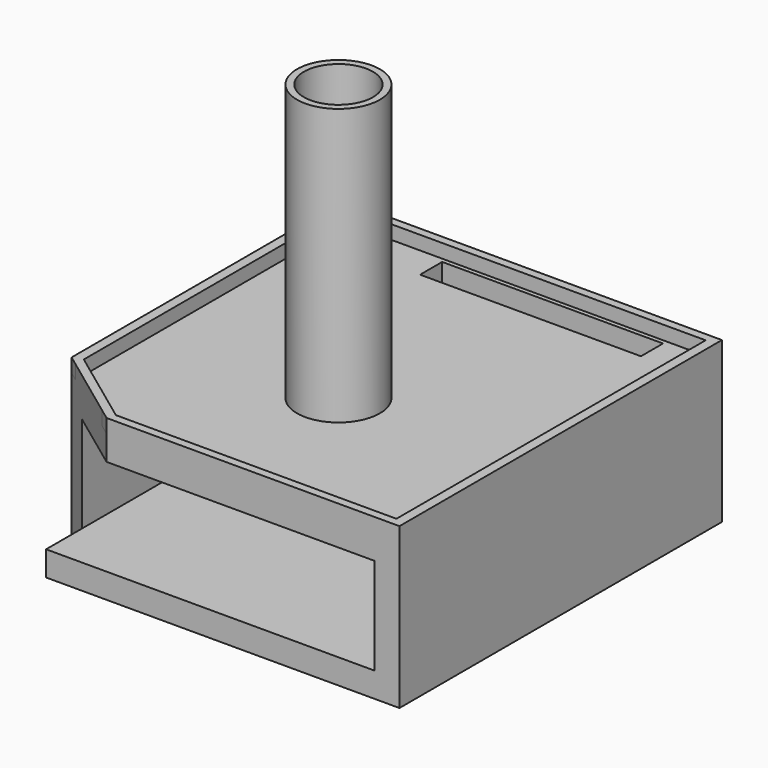
from build123d import *

# Parameters (mm, degrees)
F0_W      = 347.98
F0_H      = 294.64
F1_DEPTH  = 134.62
F3_W      = 302.26
F3_H      = 88.9
F4_DEPTH  = 307.34
F6_DEPTH  = 111.76
F9_DEPTH  = 25.4
F11_DEPTH = 12.7
F12_DEPTH = 12.7
F13_R     = 38.1
F13_R_2   = 31.75
F14_DEPTH = 254
F15_W     = 255.4974332452
F15_H     = 99.8806357384
F16_DEPTH = 254
F18_DEPTH = 254
F19_DEPTH = 254
F20_DEPTH = 76.2
F21_W     = 330.2
F21_H     = 76.2
F22_DEPTH = 12.7
F24_DEPTH = 83.82
F25_DEPTH = 25.4
F26_DEPTH = 19.05
F27_DEPTH = 19.05
F28_W     = 12.7
F28_H     = 19.05
F29_DEPTH = 33.02
F30_W     = 12.7
F30_H     = 19.05
F31_DEPTH = 33.02
F32_W     = 27.94
F32_H     = 28.0296671224
F33_DEPTH = 12.7
F34_W     = 27.94
F34_H     = 28.0296671224
F35_DEPTH = 12.7
F36_W     = 27.9462359953
F36_H     = 28.0296671224
F37_DEPTH = 12.7
F38_W     = 27.94
F38_H     = 28.0296671224
F39_DEPTH = 12.7
F41_DEPTH = 6.35
F43_DEPTH = 0.000254
F44_R     = 6.35
F45_DEPTH = 25.4
F46_R     = 12.7
F46_R_2   = 6.35
F47_DEPTH = 2.54
F48_R     = 6.35
F49_DEPTH = 2.54
F50_W     = 203.2
F50_H     = 25.4
F51_DEPTH = 25.4


with BuildPart() as f1:
    # F0 (on Top) → F1 (new body)
    with BuildSketch(Plane.XY):
        Rectangle(F0_W, F0_H)
    extrude(amount=F1_DEPTH)

    # F3 (on offset) → F4 (cut)
    with BuildSketch(Plane.XZ.offset(172.72)):
        with Locations((0, 67.31)):
            Rectangle(F3_W, F3_H)
    extrude(amount=-F4_DEPTH, mode=Mode.SUBTRACT)

    # F5 (on face) → F6 (cut)
    with BuildSketch(Plane.XY.offset(134.62)):
        Polygon((-173.99, -147.32), (-95.5131575465, -147.32), (-173.99, -89.3796235323), align=None)
    extrude(amount=-F6_DEPTH, mode=Mode.SUBTRACT)

    # F7 (on face) → F9 (cut)
    with BuildSketch(Plane.XY.offset(22.86)):
        Polygon((-151.13, -147.32), (-151.13, -106.257430598), (-173.99, -89.3796235323), (-173.99, -147.32), align=None)
    extrude(amount=-F9_DEPTH, mode=Mode.SUBTRACT)

    # F10 (on face) → F11 (join)
    with BuildSketch(Plane.XY.offset(134.62)):
        Polygon((-165.1, 139.7), (165.1, 139.7), (165.1, -139.7), (-93.0049631971, -139.7), (-105.8340007297, -139.7), (-95.5131575465, -147.32), (173.99, -147.32), (173.99, 147.32), (-173.99, 147.32), (-173.99, -89.3796235323), (-165.1, -95.9432151689), (-165.1, -86.471385759), align=None)
    extrude(amount=F11_DEPTH)

    # F10 (on face) → F12 (join)
    with BuildSketch(Plane.XY.offset(134.62)):
        Polygon((-93.0049631971, -139.7), (-165.1, -86.471385759), (-165.1, -95.9432151689), (-105.8340007297, -139.7), align=None)
    extrude(amount=F12_DEPTH)

    # F13 (on face) → F14 (join)
    with BuildSketch(Plane.XY.offset(134.62)):
        Circle(F13_R)
        Circle(F13_R_2, mode=Mode.SUBTRACT)
    extrude(amount=F14_DEPTH)

    # F15 (on face) → F16 (cut)
    with BuildSketch(Plane(origin=(0, 147.32, 0), x_dir=(-1, 0, 0), z_dir=(0, 1, 0))):
        with Locations((-35.2107621729, 78.9709836245)):
            Rectangle(F15_W, F15_H)
    extrude(amount=-F16_DEPTH, mode=Mode.SUBTRACT)

    # F17 (on face) → F18 (join)
    with BuildSketch(Plane(origin=(0, -106.68, 0), x_dir=(-1, 0, 0), z_dir=(0, 1, 0))):
        Polygon((-162.9594787955, 111.76), (-151.13, 111.76), (92.5379544497, 111.76), (92.5379544497, 128.9113014936), (-162.9594787955, 128.9113014936), align=None)
    extrude(amount=F18_DEPTH)

    # F19 (add): a face of the model
    f19_faces = [f1.faces().sort_by_distance(p)[0] for p in [
        (157.0447393978, -106.68, 70.3953328776),
    ]]
    extrude(f19_faces, amount=F19_DEPTH)

    # F20 (add): a face of the model
    f20_faces = [f1.faces().sort_by_distance(p)[0] for p in [
        (170.2112004181, 147.32, 73.66),
    ]]
    extrude(f20_faces, amount=F20_DEPTH)

    # F21 (on face) → F22 (cut)
    with BuildSketch(Plane.XY.offset(147.32)):
        with Locations((0, 177.8)):
            Rectangle(F21_W, F21_H)
    extrude(amount=-F22_DEPTH, mode=Mode.SUBTRACT)

    # F23 (on face) → F24 (join)
    with BuildSketch(Plane.XY.offset(29.0306657553)):
        Polygon((90.2130113876, 223.52), (83.8630113876, 223.52), (83.8630113876, 210.82), (96.5630113876, 210.82), (96.5630113876, 223.52), align=None)
        Polygon((-25.2709658372, 210.82), (-25.2709658372, 223.52), (-31.6209658372, 223.52), (-37.9709658372, 223.52), (-37.9709658372, 210.82), align=None)
    extrude(amount=F24_DEPTH)

    # F23 (on face) → F25 (join)
    with BuildSketch(Plane.XY.offset(29.0306657553)):
        Polygon((90.2130113876, 223.52), (83.8630113876, 223.52), (83.8630113876, 210.82), (96.5630113876, 210.82), (96.5630113876, 223.52), align=None)
        Polygon((-25.2709658372, 210.82), (-25.2709658372, 223.52), (-31.6209658372, 223.52), (-37.9709658372, 223.52), (-37.9709658372, 210.82), align=None)
    extrude(amount=F25_DEPTH)

    # F26 (add): a face of the model
    f26_faces = [f1.faces().sort_by_distance(p)[0] for p in [
        (-31.6209658372, 210.82, 70.3953328776),
    ]]
    extrude(f26_faces, amount=F26_DEPTH)

    # F27 (add): a face of the model
    f27_faces = [f1.faces().sort_by_distance(p)[0] for p in [
        (90.2130113876, 210.82, 70.3953328776),
    ]]
    extrude(f27_faces, amount=F27_DEPTH)

    # F28 (on face) → F29 (cut)
    with BuildSketch(Plane(origin=(0, 223.52, 0), x_dir=(-1, 0, 0), z_dir=(0, 1, 0))):
        with Locations((-90.2130113876, 70.3953328776)):
            Rectangle(F28_W, F28_H)
    extrude(amount=-F29_DEPTH, mode=Mode.SUBTRACT)

    # F30 (on face) → F31 (cut)
    with BuildSketch(Plane(origin=(0, 223.52, 0), x_dir=(-1, 0, 0), z_dir=(0, 1, 0))):
        with Locations((31.6209658372, 70.3953328776)):
            Rectangle(F30_W, F30_H)
    extrude(amount=-F31_DEPTH, mode=Mode.SUBTRACT)

    # F32 (on face) → F33 (cut)
    with BuildSketch(Plane(origin=(83.8630113876, 0, 0), x_dir=(0, -1, 0), z_dir=(-1, 0, 0))):
        with Locations((-205.74, 97.7451664388)):
            Rectangle(F32_W, F32_H)
    extrude(amount=-F33_DEPTH, mode=Mode.SUBTRACT)

    # F34 (on face) → F35 (cut)
    with BuildSketch(Plane(origin=(83.8630113876, 0, 0), x_dir=(0, -1, 0), z_dir=(-1, 0, 0))):
        with Locations((-205.74, 43.0454993165)):
            Rectangle(F34_W, F34_H)
    extrude(amount=-F35_DEPTH, mode=Mode.SUBTRACT)

    # F36 (on face) → F37 (cut)
    with BuildSketch(Plane(origin=(-37.9709658372, 0, 0), x_dir=(0, -1, 0), z_dir=(-1, 0, 0))):
        with Locations((-205.7431179976, 97.7451664388)):
            Rectangle(F36_W, F36_H)
    extrude(amount=-F37_DEPTH, mode=Mode.SUBTRACT)

    # F38 (on face) → F39 (cut)
    with BuildSketch(Plane(origin=(-37.9709658372, 0, 0), x_dir=(0, -1, 0), z_dir=(-1, 0, 0))):
        with Locations((-205.74, 43.0454993165)):
            Rectangle(F38_W, F38_H)
    extrude(amount=-F39_DEPTH, mode=Mode.SUBTRACT)

    # F40 (on face) → F41 (join)
    with BuildSketch(Plane(origin=(0, 223.52, 0), x_dir=(-1, 0, 0), z_dir=(0, 1, 0))):
        Polygon((98.8879544497, 22.6806657553), (98.8879544497, 111.76), (98.8879544497, 118.11), (-151.13, 118.11), (-157.48, 118.11), (-157.48, 29.0306657553), (-157.48, 22.6806657553), align=None)
        Polygon((-151.13, 29.0306657553), (-151.13, 111.76), (-96.5630113876, 111.76), (-83.8630113876, 111.76), (25.2709658372, 111.76), (37.9709658372, 111.76), (92.5379544497, 111.76), (92.5379544497, 29.0306657553), (37.9709658372, 29.0306657553), (25.2709658372, 29.0306657553), (-83.8630113876, 29.0306657553), (-96.5630113876, 29.0306657553), align=None, mode=Mode.SUBTRACT)
    extrude(amount=F41_DEPTH)

    # F50 (on face) → F51 (cut)
    with BuildSketch(Plane.XY.offset(134.62)):
        with Locations((27.4833204985, 199.2111887455)):
            Rectangle(F50_W, F50_H)
    extrude(amount=-F51_DEPTH, mode=Mode.SUBTRACT)


with BuildPart() as f43:
    # F42 (on face) → F43 (new body)
    with BuildSketch(Plane(origin=(0, 229.87, 0), x_dir=(-1, 0, 0), z_dir=(0, 1, 0))):
        Polygon((92.5379544497, 111.76), (-151.13, 111.76), (-151.13, 70.3953328776), (-151.13, 29.0306657553), (92.5379544497, 29.0306657553), align=None)
    extrude(amount=F43_DEPTH)


with BuildPart() as f45:
    # F44 (on face) → F45 (new body)
    with BuildSketch(Plane(origin=(0, 229.87, 0), x_dir=(-1, 0, 0), z_dir=(0, 1, 0))):
        with Locations((-130.7933032513, 70.7128569484)):
            Circle(F44_R)
    extrude(amount=F45_DEPTH)


with BuildPart() as f47:
    # F46 (on face) → F47 (new body)
    with BuildSketch(Plane(origin=(0, 255.27, 0), x_dir=(-1, 0, 0), z_dir=(0, 1, 0))):
        with Locations((-130.7933032513, 70.7128569484)):
            Circle(F46_R)
        with Locations((-130.7933032513, 70.7128569484)):
            Circle(F46_R_2, mode=Mode.SUBTRACT)
    extrude(amount=F47_DEPTH)


with BuildPart() as f49:
    # F48 (on face) → F49 (new body)
    with BuildSketch(Plane(origin=(0, 255.27, 0), x_dir=(-1, 0, 0), z_dir=(0, 1, 0))):
        with Locations((-130.7933032513, 70.7128569484)):
            Circle(F48_R)
    extrude(amount=F49_DEPTH)


solid = Compound([f1.part, f43.part, f45.part, f47.part, f49.part])
